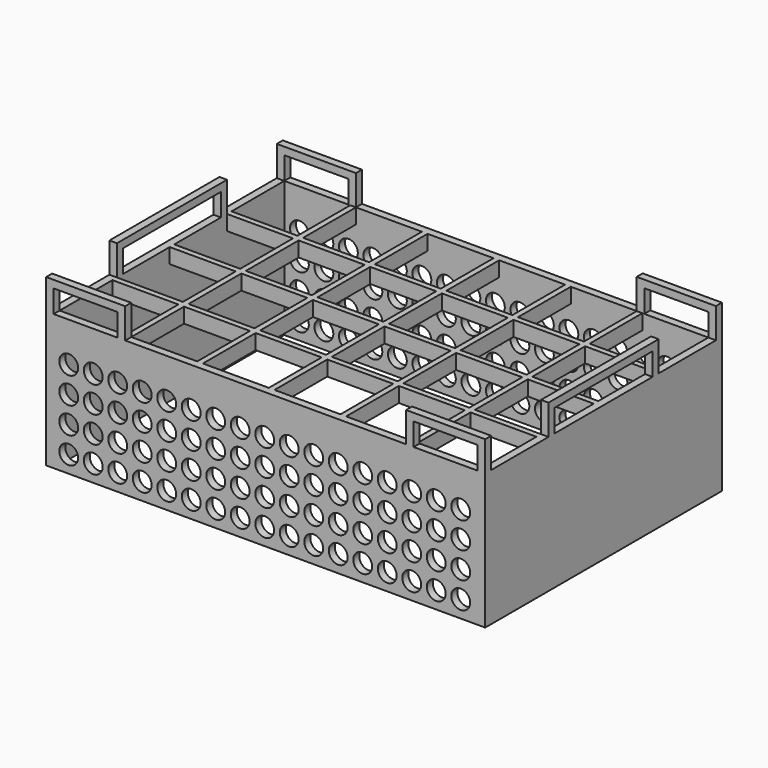
from build123d import *

# Parameters (mm, degrees)
F0_W      = 116.5
F0_H      = 78.5
F0_W_2    = 17.5
F0_H_2    = 17.5
F1_DEPTH  = 4
F2_W      = 21
F2_H      = 2
F2_W_2    = 2
F2_H_2    = 36.5
F3_DEPTH  = 8
F4_W      = 32.5
F4_H      = 6
F5_DEPTH  = 116.501
F6_W      = 17
F6_H      = 6
F7_DEPTH  = 78.501
F8_W      = 116.5
F8_H      = 78.5
F8_W_2    = 112.5
F8_H_2    = 74.5
F9_DEPTH  = 32
F10_R     = 2.5
F11_DEPTH = 78.501


with BuildPart() as f1:
    # F0 (on Top) → F1 (new body)
    with BuildSketch(Plane.XY):
        with Locations((-3.910379, 2.092845)):
            Rectangle(F0_W, F0_H)
        with Locations((-51.410379, -26.407155)):
            Rectangle(F0_W_2, F0_H_2, mode=Mode.SUBTRACT)
        with Locations((-32.410379, -26.407155)):
            Rectangle(F0_W_2, F0_H_2, mode=Mode.SUBTRACT)
        with Locations((-13.410379, -26.407155)):
            Rectangle(F0_W_2, F0_H_2, mode=Mode.SUBTRACT)
        with Locations((-51.410379, -7.407155)):
            Rectangle(F0_W_2, F0_H_2, mode=Mode.SUBTRACT)
        with Locations((-32.410379, -7.407155)):
            Rectangle(F0_W_2, F0_H_2, mode=Mode.SUBTRACT)
        with Locations((-13.410379, -7.407155)):
            Rectangle(F0_W_2, F0_H_2, mode=Mode.SUBTRACT)
        with Locations((5.589621, -26.407155)):
            Rectangle(F0_W_2, F0_H_2, mode=Mode.SUBTRACT)
        with Locations((24.589621, -26.407155)):
            Rectangle(F0_W_2, F0_H_2, mode=Mode.SUBTRACT)
        with Locations((43.589621, -26.407155)):
            Rectangle(F0_W_2, F0_H_2, mode=Mode.SUBTRACT)
        with Locations((5.589621, -7.407155)):
            Rectangle(F0_W_2, F0_H_2, mode=Mode.SUBTRACT)
        with Locations((24.589621, -7.407155)):
            Rectangle(F0_W_2, F0_H_2, mode=Mode.SUBTRACT)
        with Locations((43.589621, -7.407155)):
            Rectangle(F0_W_2, F0_H_2, mode=Mode.SUBTRACT)
        with Locations((-51.410379, 11.592845)):
            Rectangle(F0_W_2, F0_H_2, mode=Mode.SUBTRACT)
        with Locations((-32.410379, 11.592845)):
            Rectangle(F0_W_2, F0_H_2, mode=Mode.SUBTRACT)
        with Locations((-13.410379, 11.592845)):
            Rectangle(F0_W_2, F0_H_2, mode=Mode.SUBTRACT)
        with Locations((-51.410379, 30.592845)):
            Rectangle(F0_W_2, F0_H_2, mode=Mode.SUBTRACT)
        with Locations((-32.410379, 30.592845)):
            Rectangle(F0_W_2, F0_H_2, mode=Mode.SUBTRACT)
        with Locations((-13.410379, 30.592845)):
            Rectangle(F0_W_2, F0_H_2, mode=Mode.SUBTRACT)
        with Locations((5.589621, 11.592845)):
            Rectangle(F0_W_2, F0_H_2, mode=Mode.SUBTRACT)
        with Locations((24.589621, 11.592845)):
            Rectangle(F0_W_2, F0_H_2, mode=Mode.SUBTRACT)
        with Locations((43.589621, 11.592845)):
            Rectangle(F0_W_2, F0_H_2, mode=Mode.SUBTRACT)
        with Locations((5.589621, 30.592845)):
            Rectangle(F0_W_2, F0_H_2, mode=Mode.SUBTRACT)
        with Locations((24.589621, 30.592845)):
            Rectangle(F0_W_2, F0_H_2, mode=Mode.SUBTRACT)
        with Locations((43.589621, 30.592845)):
            Rectangle(F0_W_2, F0_H_2, mode=Mode.SUBTRACT)
    extrude(amount=F1_DEPTH)

    # F2 (on face) → F3 (join)
    with BuildSketch(Plane.XY.offset(4)):
        with Locations((-51.660379, 40.342845)):
            Rectangle(F2_W, F2_H)
        with Locations((-51.660379, -36.157155)):
            Rectangle(F2_W, F2_H)
        with Locations((53.339621, 2.092845)):
            Rectangle(F2_W_2, F2_H_2)
        with Locations((-61.160379, 2.092845)):
            Rectangle(F2_W_2, F2_H_2)
        with Locations((43.839621, -36.157155)):
            Rectangle(F2_W, F2_H)
        with Locations((43.839621, 40.342845)):
            Rectangle(F2_W, F2_H)
    extrude(amount=F3_DEPTH)

    # F4 (on face) → F5 (cut, through all)
    with BuildSketch(Plane(origin=(-62.160379, 0, 0), x_dir=(0, -1, 0), z_dir=(-1, 0, 0))):
        with Locations((-2.092845, 7)):
            Rectangle(F4_W, F4_H)
    extrude(amount=-F5_DEPTH, mode=Mode.SUBTRACT)

    # F6 (on face) → F7 (cut, through all)
    with BuildSketch(Plane.XZ.offset(37.157155)):
        with Locations((43.839621, 7)):
            Rectangle(F6_W, F6_H)
        with Locations((-51.660379, 7)):
            Rectangle(F6_W, F6_H)
    extrude(amount=-F7_DEPTH, mode=Mode.SUBTRACT)

    # F8 (on face) → F9 (join)
    with BuildSketch(Plane(origin=(0, 0, 0), x_dir=(1, 0, 0), z_dir=(0, 0, -1))):
        with Locations((-3.910379, -2.092845)):
            Rectangle(F8_W, F8_H)
        with Locations((-3.910379, -2.092845)):
            Rectangle(F8_W_2, F8_H_2, mode=Mode.SUBTRACT)
    extrude(amount=F9_DEPTH)

    # F10 (on face) → F11 (cut, through all)
    with BuildSketch(Plane(origin=(0, 41.342845, 0), x_dir=(-1, 0, 0), z_dir=(0, 1, 0))):
        with Locations((-47.839621, -27.5)):
            Circle(F10_R)
        with Locations((-47.839621, -20.5)):
            Circle(F10_R)
        with Locations((-47.839621, -13.5)):
            Circle(F10_R)
        with Locations((-47.839621, -6.5)):
            Circle(F10_R)
        with Locations((-41.339621, -27.5)):
            Circle(F10_R)
        with Locations((-41.339621, -20.5)):
            Circle(F10_R)
        with Locations((-41.339621, -13.5)):
            Circle(F10_R)
        with Locations((-41.339621, -6.5)):
            Circle(F10_R)
        with Locations((-34.839621, -27.5)):
            Circle(F10_R)
        with Locations((-34.839621, -20.5)):
            Circle(F10_R)
        with Locations((-34.839621, -13.5)):
            Circle(F10_R)
        with Locations((-34.839621, -6.5)):
            Circle(F10_R)
        with Locations((-28.339621, -27.5)):
            Circle(F10_R)
        with Locations((-28.339621, -20.5)):
            Circle(F10_R)
        with Locations((-28.339621, -13.5)):
            Circle(F10_R)
        with Locations((-28.339621, -6.5)):
            Circle(F10_R)
        with Locations((-21.839621, -27.5)):
            Circle(F10_R)
        with Locations((-21.839621, -20.5)):
            Circle(F10_R)
        with Locations((-21.839621, -13.5)):
            Circle(F10_R)
        with Locations((-21.839621, -6.5)):
            Circle(F10_R)
        with Locations((-15.339621, -27.5)):
            Circle(F10_R)
        with Locations((-15.339621, -20.5)):
            Circle(F10_R)
        with Locations((-15.339621, -13.5)):
            Circle(F10_R)
        with Locations((-15.339621, -6.5)):
            Circle(F10_R)
        with Locations((-8.839621, -27.5)):
            Circle(F10_R)
        with Locations((-8.839621, -20.5)):
            Circle(F10_R)
        with Locations((-8.839621, -13.5)):
            Circle(F10_R)
        with Locations((-8.839621, -6.5)):
            Circle(F10_R)
        with Locations((-2.339621, -27.5)):
            Circle(F10_R)
        with Locations((-2.339621, -20.5)):
            Circle(F10_R)
        with Locations((-2.339621, -13.5)):
            Circle(F10_R)
        with Locations((-2.339621, -6.5)):
            Circle(F10_R)
        with Locations((4.160379, -27.5)):
            Circle(F10_R)
        with Locations((4.160379, -20.5)):
            Circle(F10_R)
        with Locations((4.160379, -13.5)):
            Circle(F10_R)
        with Locations((4.160379, -6.5)):
            Circle(F10_R)
        with Locations((10.660379, -27.5)):
            Circle(F10_R)
        with Locations((10.660379, -20.5)):
            Circle(F10_R)
        with Locations((10.660379, -13.5)):
            Circle(F10_R)
        with Locations((10.660379, -6.5)):
            Circle(F10_R)
        with Locations((17.160379, -27.5)):
            Circle(F10_R)
        with Locations((17.160379, -20.5)):
            Circle(F10_R)
        with Locations((17.160379, -13.5)):
            Circle(F10_R)
        with Locations((17.160379, -6.5)):
            Circle(F10_R)
        with Locations((23.660379, -27.5)):
            Circle(F10_R)
        with Locations((23.660379, -20.5)):
            Circle(F10_R)
        with Locations((23.660379, -13.5)):
            Circle(F10_R)
        with Locations((23.660379, -6.5)):
            Circle(F10_R)
        with Locations((30.160379, -27.5)):
            Circle(F10_R)
        with Locations((30.160379, -20.5)):
            Circle(F10_R)
        with Locations((30.160379, -13.5)):
            Circle(F10_R)
        with Locations((30.160379, -6.5)):
            Circle(F10_R)
        with Locations((36.660379, -27.5)):
            Circle(F10_R)
        with Locations((36.660379, -20.5)):
            Circle(F10_R)
        with Locations((36.660379, -13.5)):
            Circle(F10_R)
        with Locations((36.660379, -6.5)):
            Circle(F10_R)
        with Locations((43.160379, -27.5)):
            Circle(F10_R)
        with Locations((43.160379, -20.5)):
            Circle(F10_R)
        with Locations((43.160379, -13.5)):
            Circle(F10_R)
        with Locations((43.160379, -6.5)):
            Circle(F10_R)
        with Locations((49.660379, -27.5)):
            Circle(F10_R)
        with Locations((49.660379, -20.5)):
            Circle(F10_R)
        with Locations((49.660379, -13.5)):
            Circle(F10_R)
        with Locations((49.660379, -6.5)):
            Circle(F10_R)
        with Locations((56.160379, -27.5)):
            Circle(F10_R)
        with Locations((56.160379, -20.5)):
            Circle(F10_R)
        with Locations((56.160379, -13.5)):
            Circle(F10_R)
        with Locations((56.160379, -6.5)):
            Circle(F10_R)
    extrude(amount=-F11_DEPTH, mode=Mode.SUBTRACT)


solid = f1.part
